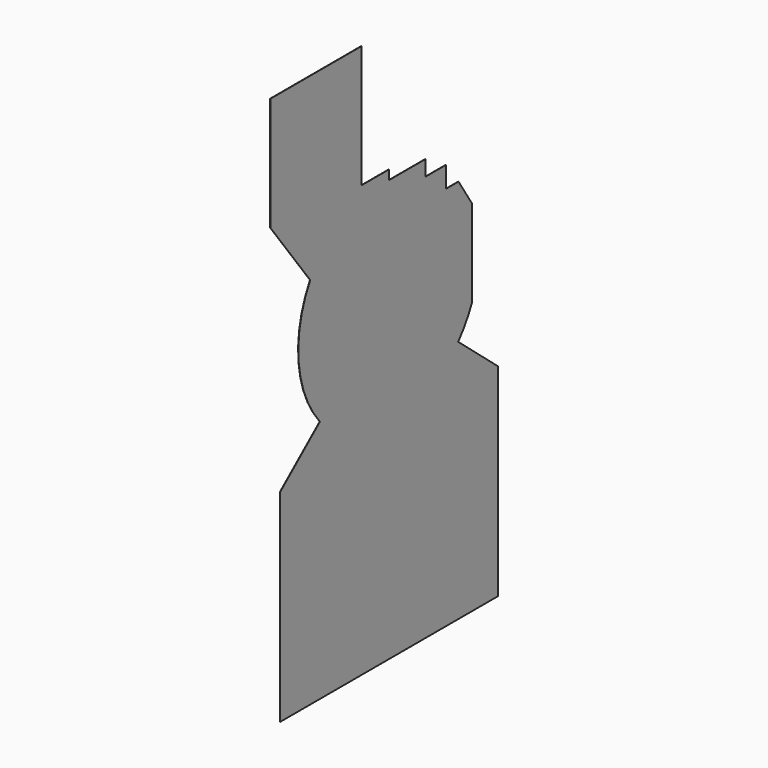
from build123d import *

# Parameters (mm, degrees)
PAD_DEPTH = 1


with BuildPart() as part:
    # Sketch → Pad (new body)
    with BuildSketch(Plane.YZ.offset(-500)):
        with BuildLine():
            ThreePointArc((-434.556983, 247.305941), (-497.810755, -46.738128), (-380.9308, -323.869921))
            Line((-380.9308, -323.869921), (-600, -507.690796))
            Line((-600, -507.690796), (-600, -1400))
            Line((-600, -1400), (600, -1400))
            Line((600, -1400), (600, -507.690796))
            Line((600, -507.690796), (380.9308, -323.869921))
            ThreePointArc((380.9308, -323.869921), (424.161816, -264.739029), (458.28967, -199.926432))
            Line((458.28967, 180.073568), (458.28967, -199.926432))
            Line((382.889757, 297.136749), (458.28967, 180.073568))
            Line((312.889757, 297.136749), (382.889757, 297.136749))
            Line((312.889757, 390), (312.889757, 297.136749))
            Line((199.509467, 390), (312.889757, 390))
            Line((199.509467, 458.471343), (199.509467, 390))
            Line((3.8e-05, 458.471343), (199.509467, 458.471343))
            Line((3.8e-05, 500), (3.8e-05, 458.471343))
            Line((-152.007187, 500), (3.8e-05, 500))
            Line((-152.007187, 1040), (-152.007187, 500))
            Line((-654.474365, 1040), (-152.007187, 1040))
            Line((-654.474365, 1040), (-654.474365, 540))
            Line((-434.556983, 247.305941), (-654.474365, 540))
        make_face()
    extrude(amount=PAD_DEPTH)


solid = part.part
